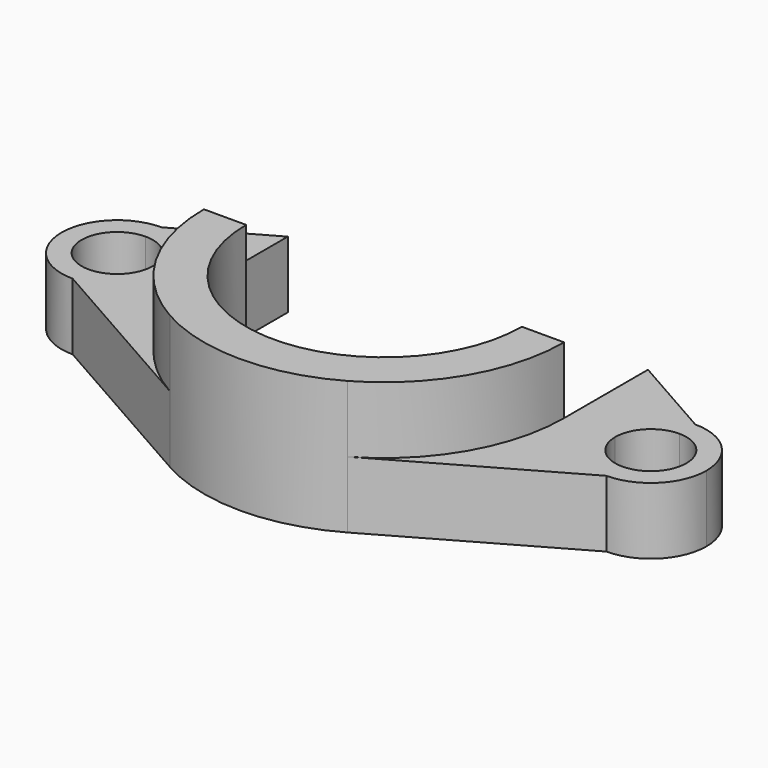
from build123d import *

# Parameters (mm, degrees)
F1_DEPTH = 6
F2_DEPTH = 3


with BuildPart() as f1:
    # F0 (on Top) → F1 (new body)
    with BuildSketch(Plane.XY):
        with BuildLine():
            Line((8.1, 0), (6.2, 0))
            ThreePointArc((6.2, 0), (0, -6.2), (-6.2, 0))
            Line((-6.2, 0), (-8.1, 0))
            ThreePointArc((-8.1, 0), (-7.0003956389, -4.074857163), (-4.0001331115, -7.0433610649))
            ThreePointArc((-4.0001331115, -7.0433610649), (0, -8.1), (4.0001331115, -7.0433610649))
            ThreePointArc((4.0001331115, -7.0433610649), (7.0003956389, -4.074857163), (8.1, 0))
        make_face()
    extrude(amount=F1_DEPTH)

    # F0 (on Top) → F2 (join)
    with BuildSketch(Plane.XY):
        with BuildLine():
            Line((9.5, 0), (8.1, 0))
            ThreePointArc((8.1, 0), (7.0003956389, -4.074857163), (4.0001331115, -7.0433610649))
            Line((4.0001331115, -7.0433610649), (12, -2.5))
            ThreePointArc((12, -2.5), (10.232233047, -1.767766953), (9.5, 0))
        make_face()
        with BuildLine():
            Line((10.4, 0), (9.5, 0))
            ThreePointArc((9.5, 0), (10.232233047, -1.767766953), (12, -2.5))
            Line((12, -2.5), (12, -1.6))
            ThreePointArc((12, -1.6), (10.8686291501, -1.1313708499), (10.4, 0))
        make_face()
        with BuildLine():
            Line((12, -1.6), (12, -2.5))
            ThreePointArc((12, -2.5), (13.767766953, -1.767766953), (14.5, 0))
            ThreePointArc((14.5, 0), (13.767766953, 1.767766953), (12, 2.5))
            Line((12, 2.5), (12, 1.6))
            ThreePointArc((12, 1.6), (13.1313708499, 1.1313708499), (13.6, 0))
            ThreePointArc((13.6, 0), (13.1313708499, -1.1313708499), (12, -1.6))
        make_face()
        with BuildLine():
            ThreePointArc((-4.0001331115, -7.0433610649), (-7.0003956389, -4.074857163), (-8.1, 0))
            Line((-8.1, 0), (-9.5, 0))
            ThreePointArc((-9.5, 0), (-10.232233047, -1.767766953), (-12, -2.5))
            Line((-12, -2.5), (-4.0001331115, -7.0433610649))
        make_face()
        with BuildLine():
            ThreePointArc((12, 2.5), (10.232233047, 1.767766953), (9.5, 0))
            Line((9.5, 0), (10.4, 0))
            ThreePointArc((10.4, 0), (10.8686291501, 1.1313708499), (12, 1.6))
            Line((12, 1.6), (12, 2.5))
        make_face()
        with BuildLine():
            ThreePointArc((-12, -2.5), (-10.232233047, -1.767766953), (-9.5, 0))
            Line((-9.5, 0), (-10.4, 0))
            ThreePointArc((-10.4, 0), (-10.8686291501, -1.1313708499), (-12, -1.6))
            Line((-12, -1.6), (-12, -2.5))
        make_face()
        with BuildLine():
            ThreePointArc((-12, 2.5), (-14.5, 0), (-12, -2.5))
            Line((-12, -2.5), (-12, -1.6))
            ThreePointArc((-12, -1.6), (-13.6, 0), (-12, 1.6))
            Line((-12, 1.6), (-12, 2.5))
        make_face()
        with BuildLine():
            Line((-10.4, 0), (-9.5, 0))
            ThreePointArc((-9.5, 0), (-10.232233047, 1.767766953), (-12, 2.5))
            Line((-12, 2.5), (-12, 1.6))
            ThreePointArc((-12, 1.6), (-10.8686291501, 1.1313708499), (-10.4, 0))
        make_face()
        with BuildLine():
            Line((-9.5, 0), (-8.1, 0))
            Line((-8.1, 0), (-8.1, 4.7149253731))
            Line((-8.1, 4.7149253731), (-12, 2.5))
            ThreePointArc((-12, 2.5), (-10.232233047, 1.767766953), (-9.5, 0))
        make_face()
        with BuildLine():
            Line((8.1, 4.7149253731), (8.1, 0))
            Line((8.1, 0), (9.5, 0))
            ThreePointArc((9.5, 0), (10.232233047, 1.767766953), (12, 2.5))
            Line((12, 2.5), (8.1, 4.7149253731))
        make_face()
    extrude(amount=F2_DEPTH)


solid = f1.part
